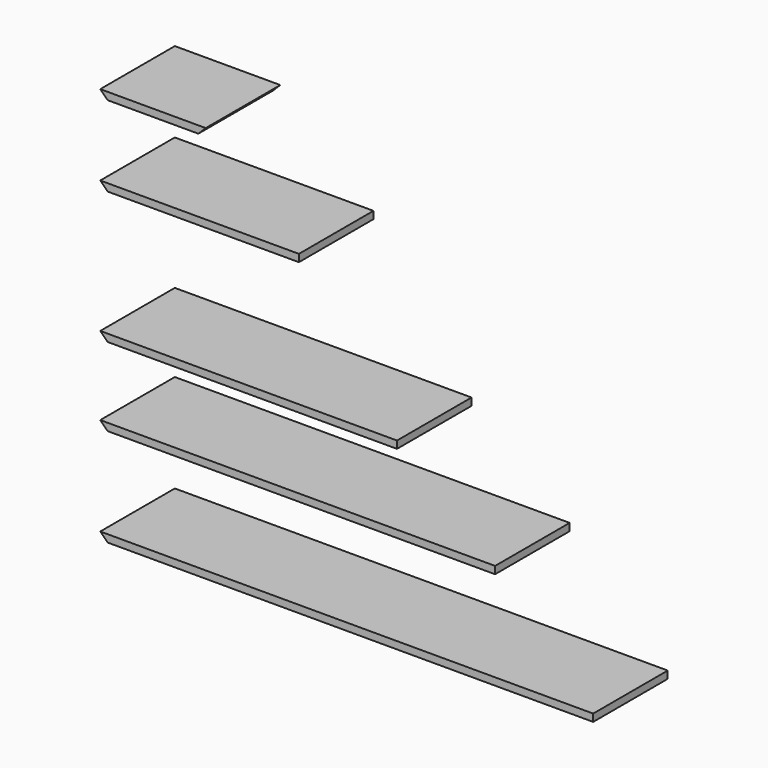
from build123d import *

# Parameters (mm, degrees)
F0_W      = 1276.35
F0_H      = 19.05
F1_DEPTH  = 241.3
F3_DEPTH  = 241.301
F5_W      = 254
F5_H      = 19.05
F6_DEPTH  = 241.301
F8_W      = 254
F8_H      = 19.05
F9_DEPTH  = 241.301
F11_W     = 254
F11_H     = 19.05
F12_DEPTH = 241.301
F15_DEPTH = 241.301


with BuildPart() as f1:
    # F0 (on Front) → F1 (new body)
    with BuildSketch(Plane.XZ):
        Rectangle(F0_W, F0_H)
    extrude(amount=F1_DEPTH)

    # F2 (on face) → F3 (cut, through all)
    with BuildSketch(Plane.XZ.offset(241.3)):
        Polygon((-619.125, -9.525), (-638.175, 9.525), (-638.175, -9.525), align=None)
    extrude(amount=-F3_DEPTH, mode=Mode.SUBTRACT)


with BuildPart() as f4_1:
    # F4: copy of F1
    add(f1.part.moved(Location((0, 0, 254))))

    # F5 (on face) → F6 (cut, through all)
    with BuildSketch(Plane.XZ.offset(241.3)):
        with Locations((511.175, 254)):
            Rectangle(F5_W, F5_H)
    extrude(amount=-F6_DEPTH, mode=Mode.SUBTRACT)


with BuildPart() as f7_1:
    # F7: copy of F4_1
    add(f4_1.part.moved(Location((0, 0, 203.2))))

    # F8 (on face) → F9 (cut, through all)
    with BuildSketch(Plane.XZ.offset(241.3)):
        with Locations((257.175, 457.2)):
            Rectangle(F8_W, F8_H)
    extrude(amount=-F9_DEPTH, mode=Mode.SUBTRACT)


with BuildPart() as f10_1:
    # F10: copy of F7_1
    add(f7_1.part.moved(Location((0, 0, 342.9))))

    # F11 (on face) → F12 (cut, through all)
    with BuildSketch(Plane.XZ.offset(241.3)):
        with Locations((3.175, 800.1)):
            Rectangle(F11_W, F11_H)
    extrude(amount=-F12_DEPTH, mode=Mode.SUBTRACT)


with BuildPart() as f13_1:
    # F13: copy of F10_1
    add(f10_1.part.moved(Location((0, 0, 208.28))))

    # F14 (on face) → F15 (cut, through all)
    with BuildSketch(Plane.XZ.offset(241.3)):
        Polygon((-365.125, 1017.905), (-384.175, 998.855), (-123.825, 998.855), (-123.825, 1017.905), align=None)
    extrude(amount=-F15_DEPTH, mode=Mode.SUBTRACT)


solid = Compound([f1.part, f4_1.part, f7_1.part, f10_1.part, f13_1.part])
